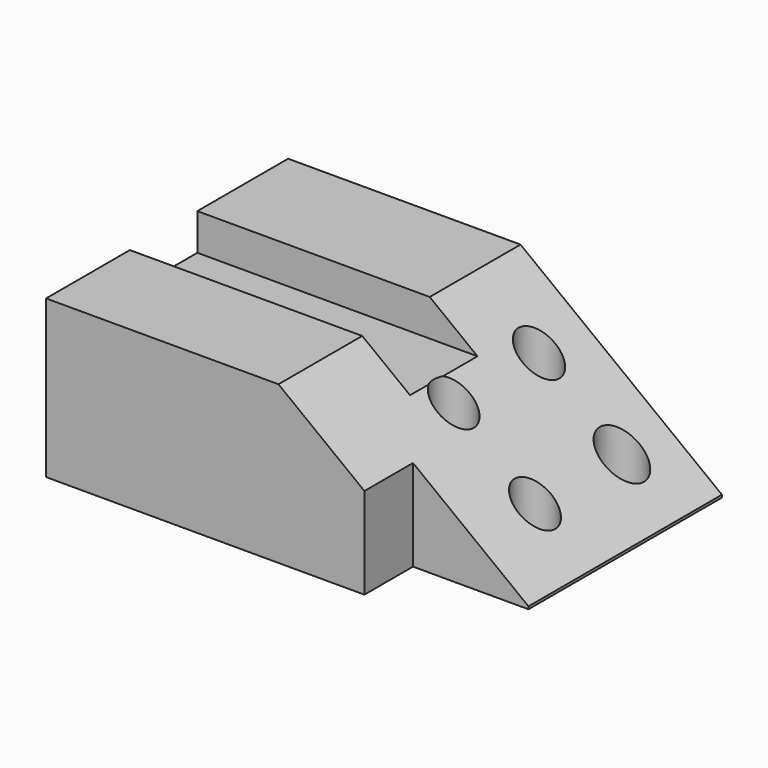
from build123d import *

# Parameters (mm, degrees)
F0_W     = 59.6908442676
F0_H     = 73.2762925327
F0_W_2   = 45.3756786883
F1_DEPTH = 38.1
F3_DEPTH = 76.2
F4_W     = 20.4342082143
F4_H     = 8.8877151668
F5_DEPTH = 76.2
F6_W     = 27.9634296894
F6_H     = 14.7078186274
F7_DEPTH = 25.4
F8_R     = 4.8926994205
F8_R_2   = 4.9486448894
F8_R_3   = 4.9129402175
F8_R_4   = 5.3604581345
F9_DEPTH = 76.2


with BuildPart() as f1:
    # F0 (on Top) → F1 (new body)
    with BuildSketch(Plane.XY):
        with Locations((-29.8454221338, -36.6381462663)):
            Rectangle(F0_W, F0_H)
        with Locations((22.6878393441, -36.6381462663)):
            Rectangle(F0_W_2, F0_H)
    extrude(amount=F1_DEPTH)

    # F2 (on Front) → F3 (cut)
    with BuildSketch(Plane.XZ):
        Polygon((-9.0658813715, 42.4513481557), (46.1928248405, 0), (48.2074655592, 0), (48.2074655592, 42.4513481557), align=None)
    extrude(amount=F3_DEPTH, mode=Mode.SUBTRACT)

    # F4 (on face) → F5 (cut)
    with BuildSketch(Plane(origin=(-59.6908442676, 0, 0), x_dir=(0, -1, 0), z_dir=(-1, 0, 0))):
        with Locations((37.7025529742, 33.6561424166)):
            Rectangle(F4_W, F4_H)
    extrude(amount=-F5_DEPTH, mode=Mode.SUBTRACT)

    # F6 (on face) → F7 (cut)
    with BuildSketch(Plane(origin=(0, 0, 0), x_dir=(1, 0, 0), z_dir=(0, 0, -1))):
        with Locations((31.3939638436, 65.922383219)):
            Rectangle(F6_W, F6_H)
    extrude(amount=-F7_DEPTH, mode=Mode.SUBTRACT)

    # F8 (on face) → F9 (cut)
    with BuildSketch(Plane(origin=(0, 0, 0), x_dir=(1, 0, 0), z_dir=(0, 0, -1))):
        with Locations((12.5195495784, 40.1489026845)):
            Circle(F8_R)
        with Locations((12.4636041095, 14.2439040613)):
            Circle(F8_R_2)
        with Locations((32.2204525995, 40.1489026845)):
            Circle(F8_R_3)
        with Locations((32.3233206043, 13.9583635985)):
            Circle(F8_R_4)
    extrude(amount=-F9_DEPTH, mode=Mode.SUBTRACT)


solid = f1.part
